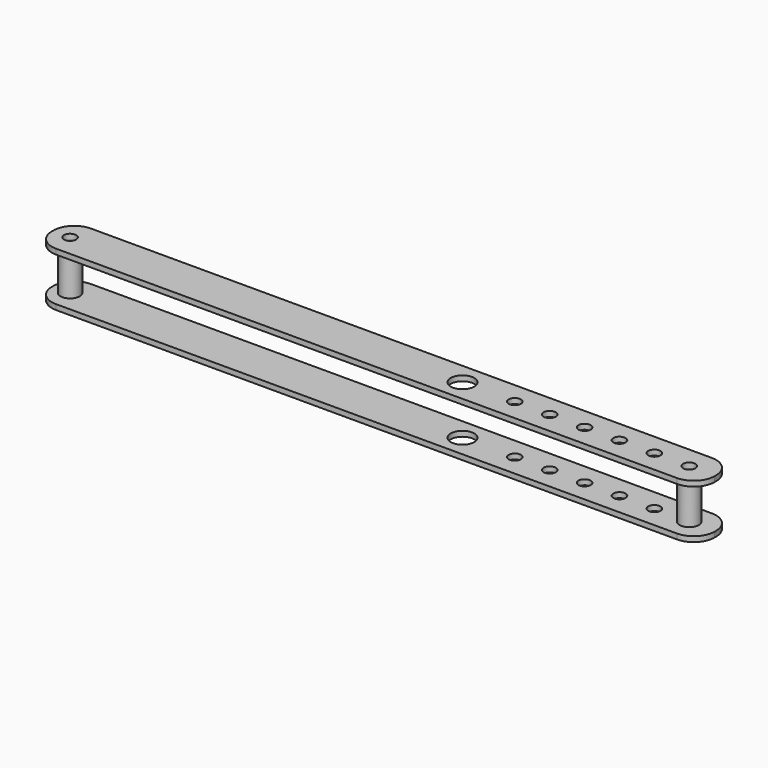
from build123d import *

# Parameters (mm, degrees)
F0_W     = 380
F0_H     = 3
F1_DEPTH = 25
F2_R     = 12
F2_2_R   = 12
F3_R     = 3.5
F3_R_2   = 6.75
F4_DEPTH = 35
F5_START = -3
F3_R_3   = 5.5
F3_R_4   = 4
F5_DEPTH = 25


with BuildPart() as f1:
    # F0 (on Front) → F1 (new body)
    with BuildSketch(Plane.XZ):
        with Locations((190, 29.5)):
            Rectangle(F0_W, F0_H)
    extrude(amount=F1_DEPTH)

    # F2
    f2_edges = [f1.edges().sort_by_distance(p)[0] for p in [
        (380, -25, 29.5),
        (380, 0, 29.5),
        (0, -25, 29.5),
        (0, 0, 29.5),
    ]]
    fillet(f2_edges, radius=F2_R)


with BuildPart() as f1b:
    # F0 (on Front) → F1, piece 2 (new body)
    with BuildSketch(Plane.XZ):
        with Locations((190, 1.5)):
            Rectangle(F0_W, F0_H)
    extrude(amount=F1_DEPTH)

    # F2#2
    f2_2_edges = [f1b.edges().sort_by_distance(p)[0] for p in [
        (380, 0, 1.5),
        (380, -25, 1.5),
        (0, 0, 1.5),
        (0, -25, 1.5),
    ]]
    fillet(f2_2_edges, radius=F2_2_R)


with BuildPart() as f4_tool:
    # F3 (on face) → F4 (new body)
    with BuildSketch(Plane.XY.offset(31)):
        with Locations((10, -12.5)):
            Circle(F3_R)
        with Locations((235, -12.5)):
            Circle(F3_R_2)
        with Locations((365, -12.5)):
            Circle(F3_R)
        with Locations((265, -12.5)):
            Circle(F3_R)
        with Locations((285, -12.5)):
            Circle(F3_R)
        with Locations((305, -12.5)):
            Circle(F3_R)
        with Locations((325, -12.5)):
            Circle(F3_R)
        with Locations((345, -12.5)):
            Circle(F3_R)
    extrude(amount=-F4_DEPTH)


with BuildPart() as f1_1:
    add(f1.part)

    # F4: cut by f4_tool
    add(f4_tool.part, mode=Mode.SUBTRACT)


with BuildPart() as f1b_1:
    add(f1b.part)

    # F4: cut by f4_tool
    add(f4_tool.part, mode=Mode.SUBTRACT)


with BuildPart() as f5:
    # F3 (on face) → F5 (new body)
    with BuildSketch(Plane.XY.offset(31).offset(F5_START)):
        with Locations((10, -12.5)):
            Circle(F3_R_3)
        with Locations((10, -12.5)):
            Circle(F3_R_4, mode=Mode.SUBTRACT)
    extrude(amount=-F5_DEPTH)


with BuildPart() as f5b:
    # F3 (on face) → F5, piece 2 (new body)
    with BuildSketch(Plane.XY.offset(31).offset(F5_START)):
        with Locations((365, -12.5)):
            Circle(F3_R_3)
        with Locations((365, -12.5)):
            Circle(F3_R_4, mode=Mode.SUBTRACT)
    extrude(amount=-F5_DEPTH)


solid = Compound([f1_1.part, f1b_1.part, f5.part, f5b.part])
